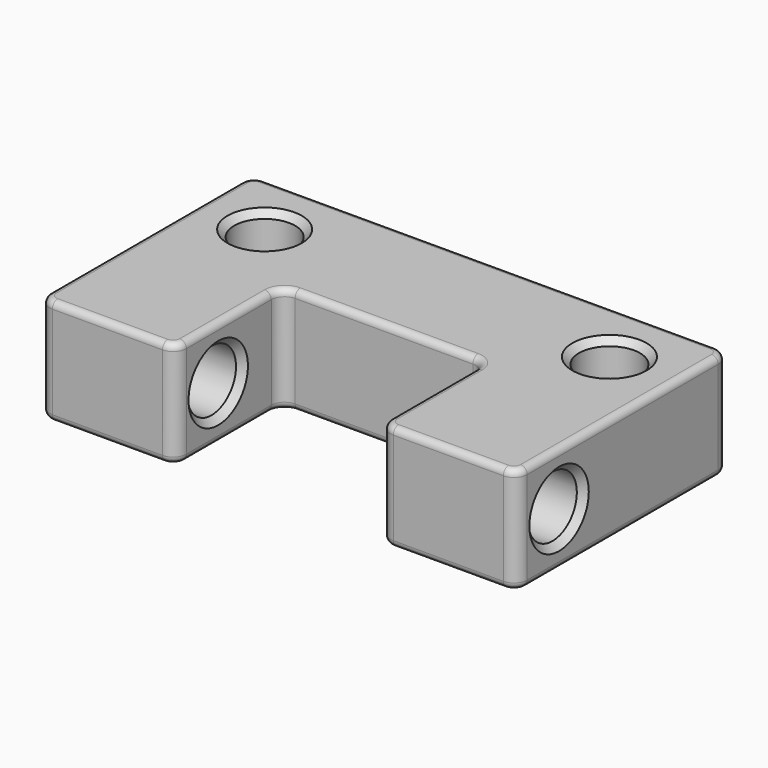
from build123d import *

# Parameters (mm, degrees)
F0_R     = 2.3
F1_DEPTH = 8
F2_R     = 2.3
F3_DEPTH = 36.001
F4_R     = 1
F5_SIZE  = 0.5
F6_R     = 0.5


with BuildPart() as f1:
    # F0 (on Top) → F1 (new body)
    with BuildSketch(Plane.XY):
        with BuildLine():
            Line((18, 0), (0, 0))
            Line((0, 0), (-18, 0))
            Line((-18, 0), (-18, -20))
            Line((-18, -20), (-7.7, -20))
            Line((-7.7, -20), (-7.7, -11))
            ThreePointArc((-7.7, -11), (-7.4071067812, -10.2928932188), (-6.7, -10))
            Line((-6.7, -10), (0, -10))
            Line((0, -10), (6.7, -10))
            ThreePointArc((6.7, -10), (7.4071067812, -10.2928932188), (7.7, -11))
            Line((7.7, -11), (7.7, -20))
            Line((7.7, -20), (18, -20))
            Line((18, -20), (18, 0))
        make_face()
        with Locations((-13, -5)):
            Circle(F0_R, mode=Mode.SUBTRACT)
        with Locations((13, -5)):
            Circle(F0_R, mode=Mode.SUBTRACT)
    extrude(amount=F1_DEPTH)

    # F2 (on face) → F3 (cut, through all)
    with BuildSketch(Plane.YZ.offset(18)):
        with Locations((-16, 4)):
            Circle(F2_R)
    extrude(amount=-F3_DEPTH, mode=Mode.SUBTRACT)

    # F4
    f4_edges = [f1.edges().sort_by_distance(p)[0] for p in [
        (-18, -20, 4),
        (7.7, -20, 4),
        (18, -20, 4),
        (-18, 0, 4),
        (18, 0, 4),
        (-7.7, -20, 4),
    ]]
    fillet(f4_edges, radius=F4_R)

    # F5
    f5_edges = [f1.edges().sort_by_distance(p)[0] for p in [
        (-15.3, -5, 8),
        (10.7, -5, 8),
        (-15.3, -5, 0),
        (10.7, -5, 0),
        (-7.7, -18.3, 4),
        (-18, -18.3, 4),
        (7.7, -18.3, 4),
        (18, -18.3, 4),
    ]]
    chamfer(f5_edges, length=F5_SIZE)

    # F6
    f6_edges = [f1.edges().sort_by_distance(p)[0] for p in [
        (-12.85, -20, 8),
        (-7.992893, -19.707107, 8),
        (-7.7, -15, 8),
        (-7.407107, -10.292893, 8),
        (0, -10, 8),
        (7.407107, -10.292893, 8),
        (7.7, -15, 8),
        (7.992893, -19.707107, 8),
        (12.85, -20, 8),
        (17.707107, -19.707107, 8),
        (18, -10, 8),
        (17.707107, -0.292893, 8),
        (0, 0, 8),
        (-17.707107, -0.292893, 8),
        (-18, -10, 8),
        (-17.707107, -19.707107, 8),
        (-7.7, -15, 0),
    ]]
    fillet(f6_edges, radius=F6_R)


solid = f1.part
